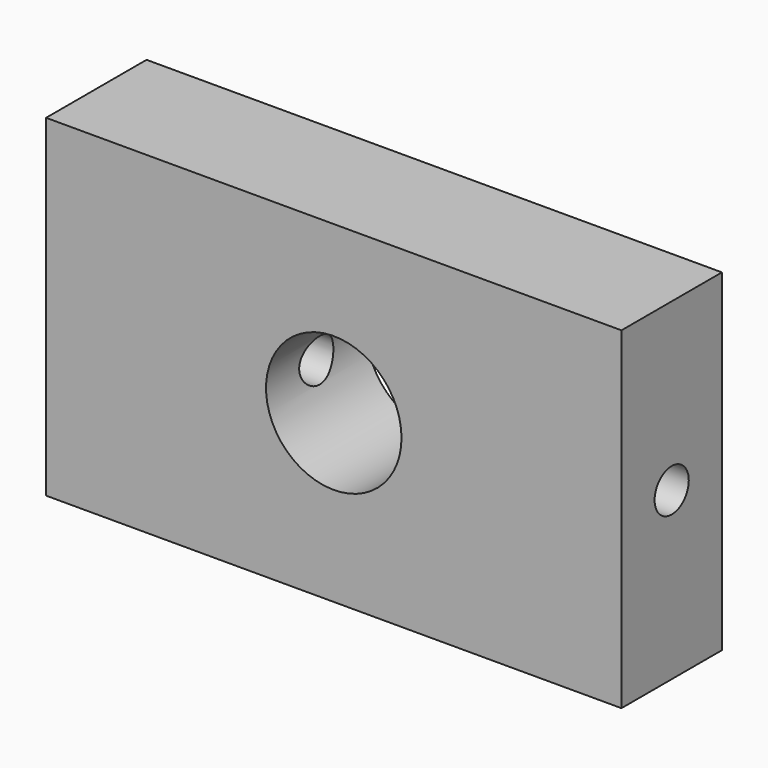
from build123d import *

# Parameters (mm, degrees)
F0_W     = 116.38283
F0_H     = 67.286596
F0_R     = 13.70179
F1_DEPTH = 25.4
F2_R     = 4.320729
F3_DEPTH = 167.132


with BuildPart() as f1:
    # F0 (on Front) → F1 (new body)
    with BuildSketch(Plane.XZ):
        with Locations((58.191415, 33.643298)):
            Rectangle(F0_W, F0_H)
        with Locations((58.191415, 33.643298)):
            Circle(F0_R, mode=Mode.SUBTRACT)
    extrude(amount=F1_DEPTH)

    # F2 (on face) → F3 (cut)
    with BuildSketch(Plane.YZ.offset(116.38283)):
        with Locations((-12.7, 33.643298)):
            Circle(F2_R)
    extrude(amount=-F3_DEPTH, mode=Mode.SUBTRACT)


solid = f1.part
